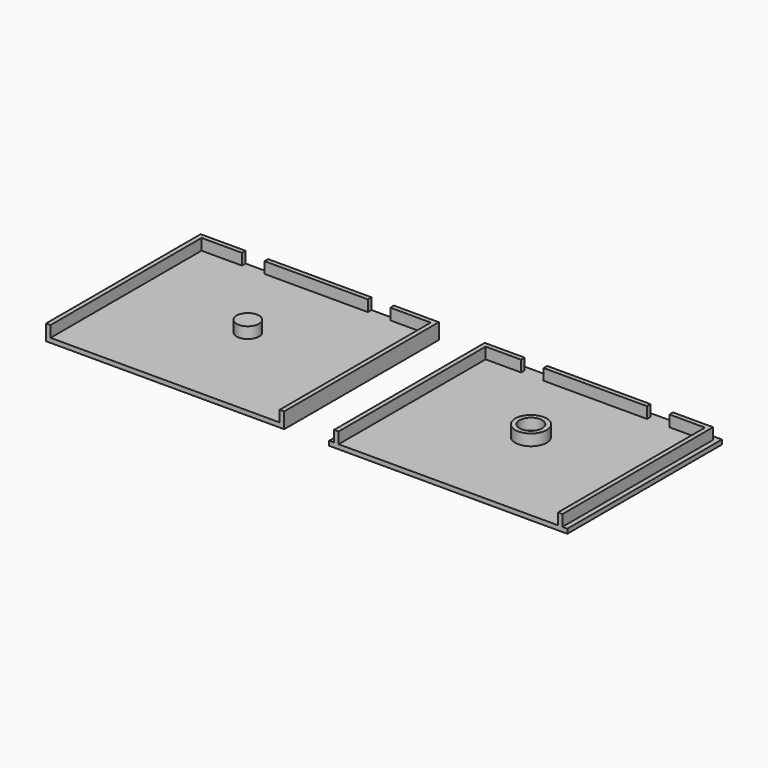
from build123d import *

# Parameters (mm, degrees)
F0_R     = 2.5
F0_W     = 5
F0_H     = 1
F1_DEPTH = 1
F0_W_2   = 23
F2_DEPTH = 3.5
F3_DEPTH = 3.5
F4_R     = 3.5
F4_R_2   = 2.5
F4_W     = 23
F4_H     = 1.1
F4_W_2   = 5
F4_H_2   = 1
F5_DEPTH = 1
F6_DEPTH = 3.5
F7_DEPTH = 3.5


with BuildPart() as f1:
    # F0 (on Top) → F1 (new body)
    with BuildSketch(Plane.XY):
        Polygon((-57, 19), (-57, -23), (-6, -23), (-6, 19), (-15, 19), (-20, 19), (-43, 19), (-48, 19), align=None)
        with Locations((-31.5, 0)):
            Circle(F0_R, mode=Mode.SUBTRACT)
        with Locations((-17.5, 19.5)):
            Rectangle(F0_W, F0_H)
        with Locations((-45.5, 19.5)):
            Rectangle(F0_W, F0_H)
    extrude(amount=F1_DEPTH)

    # F0 (on Top) → F2 (join)
    with BuildSketch(Plane.XY):
        Polygon((-58, 20), (-58, -23), (-57, -23), (-57, 19), (-48, 19), (-48, 20), align=None)
        with Locations((-31.5, 19.5)):
            Rectangle(F0_W_2, F0_H)
        Polygon((-6, 19), (-6, -23), (-5, -23), (-5, 20), (-15, 20), (-15, 19), align=None)
    extrude(amount=F2_DEPTH)

    # F0 (on Top) → F3 (join)
    with BuildSketch(Plane.XY):
        with Locations((-31.5, 0)):
            Circle(F0_R)
    extrude(amount=F3_DEPTH)


with BuildPart() as f5:
    # F4 (on Top) → F5 (new body)
    with BuildSketch(Plane.XY):
        Polygon((7.1, 17.9), (7.1, -23), (55.9, -23), (55.9, 17.9), (48, 17.9), (43, 17.9), (20, 17.9), (15, 17.9), align=None)
        with Locations((31.5, 0)):
            Circle(F4_R, mode=Mode.SUBTRACT)
        Polygon((5, 20), (5, -23), (6.1, -23), (6.1, 18.9), (15, 18.9), (15, 20), align=None)
        Polygon((56.9, 18.9), (56.9, -23), (58, -23), (58, 20), (48, 20), (48, 18.9), align=None)
        with Locations((31.5, 0)):
            Circle(F4_R)
        with Locations((31.5, 0)):
            Circle(F4_R_2, mode=Mode.SUBTRACT)
        with Locations((31.5, 19.45)):
            Rectangle(F4_W, F4_H)
        with Locations((31.5, 0)):
            Circle(F4_R_2)
        with Locations((17.5, 19.45)):
            Rectangle(F4_W_2, F4_H)
        with Locations((45.5, 19.45)):
            Rectangle(F4_W_2, F4_H)
        with Locations((17.5, 18.4)):
            Rectangle(F4_W_2, F4_H_2)
        with Locations((45.5, 18.4)):
            Rectangle(F4_W_2, F4_H_2)
    extrude(amount=F5_DEPTH)

    # F4 (on Top) → F6 (join)
    with BuildSketch(Plane.XY):
        Polygon((6.1, 18.9), (6.1, -23), (7.1, -23), (7.1, 17.9), (15, 17.9), (15, 18.9), align=None)
        with Locations((31.5, 18.4)):
            Rectangle(F4_W, F4_H_2)
        Polygon((55.9, 17.9), (55.9, -23), (56.9, -23), (56.9, 18.9), (48, 18.9), (48, 17.9), align=None)
    extrude(amount=F6_DEPTH)

    # F4 (on Top) → F7 (join)
    with BuildSketch(Plane.XY):
        with Locations((31.5, 0)):
            Circle(F4_R)
        with Locations((31.5, 0)):
            Circle(F4_R_2, mode=Mode.SUBTRACT)
    extrude(amount=F7_DEPTH)


solid = Compound([f1.part, f5.part])
